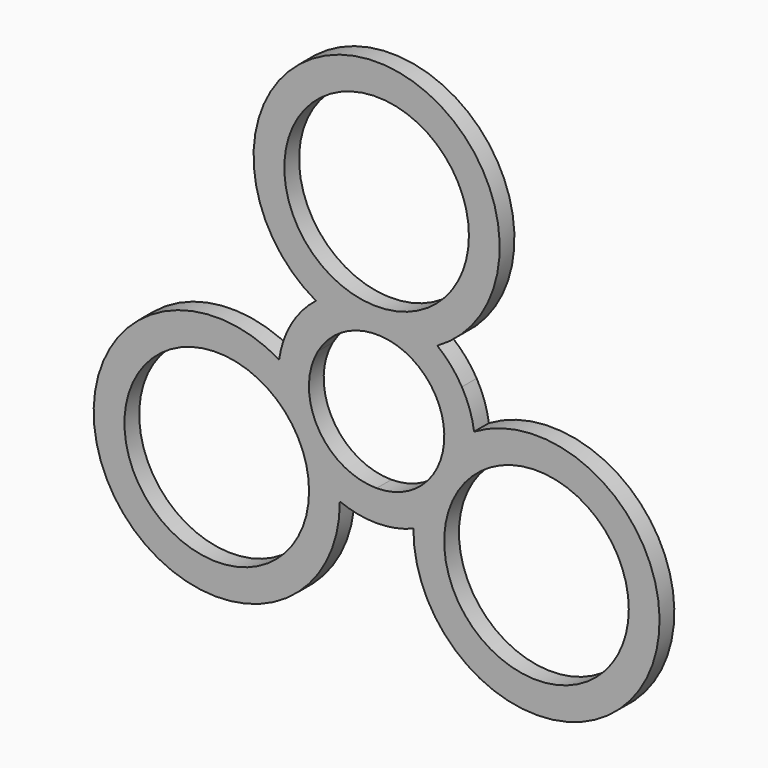
from build123d import *

# Parameters (mm, degrees)
F0_R     = 15
F1_DEPTH = 3


with BuildPart() as f1:
    # F0 (on Front) → F1 (new body)
    with BuildSketch(Plane.XZ):
        with BuildLine():
            ThreePointArc((13.856406, 8), (12.079704, 10.491937), (9.861034, 12.6))
            ThreePointArc((9.861034, 12.6), (0, 50), (-9.861034, 12.6))
            ThreePointArc((-9.861034, 12.6), (-12.079704, 10.491937), (-13.856406, 8))
            ThreePointArc((-13.856406, 8), (-15.126136, 5.215362), (-15.842437, 2.239906))
            ThreePointArc((-15.842437, 2.239906), (-43.30127, -25), (-5.981403, -14.839906))
            ThreePointArc((-5.981403, -14.839906), (-3.046432, -15.707299), (0, -16))
            ThreePointArc((0, -16), (3.046432, -15.707299), (5.981403, -14.839906))
            ThreePointArc((5.981403, -14.839906), (43.30127, -25), (15.842437, 2.239906))
            ThreePointArc((15.842437, 2.239906), (15.126136, 5.215362), (13.856406, 8))
        make_face()
        with Locations((-25.980762, -15)):
            Circle(F0_R, mode=Mode.SUBTRACT)
        with Locations((25.980762, -15)):
            Circle(F0_R, mode=Mode.SUBTRACT)
        with BuildLine():
            ThreePointArc((-9.526279, 5.5), (0, 11), (9.526279, 5.5))
            ThreePointArc((9.526279, 5.5), (9.526279, -5.5), (0, -11))
            ThreePointArc((0, -11), (-9.526279, -5.5), (-9.526279, 5.5))
        make_face(mode=Mode.SUBTRACT)
        with Locations((0, 30)):
            Circle(F0_R, mode=Mode.SUBTRACT)
    extrude(amount=F1_DEPTH)


solid = f1.part
